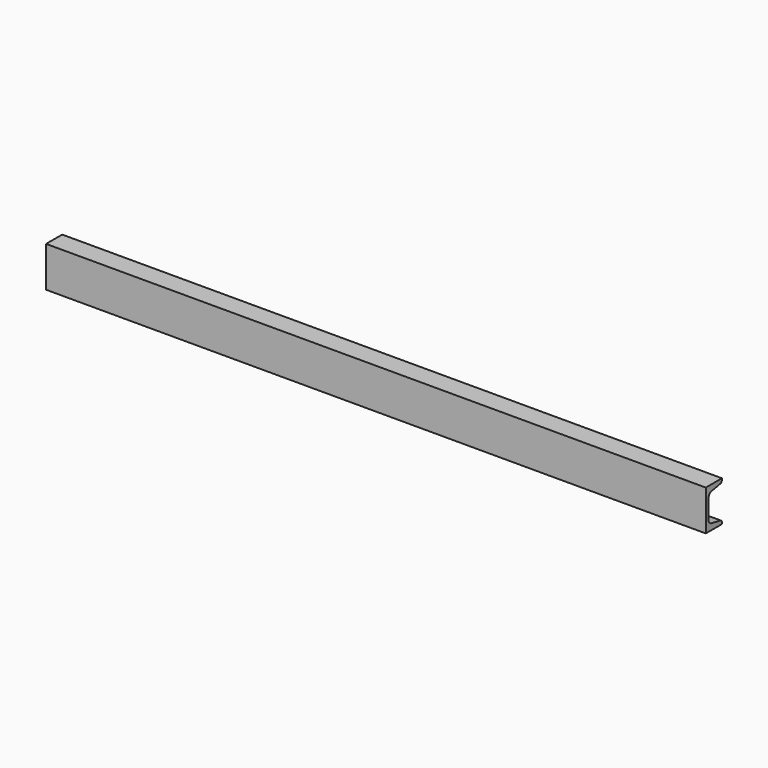
from build123d import *

# Parameters (mm, degrees)
F1_DEPTH = 1244.6
F2_R     = 5.08
F3_R     = 8.89


with BuildPart() as f1:
    # F0 (on Right) → F1 (new body)
    with BuildSketch(Plane.YZ):
        Polygon((0, 76.2), (0, 0), (38.0492, 0), (38.0492, 6.9342), (6.5532, 12.7), (6.5532, 63.5), (38.0492, 69.2658), (38.0492, 76.2), align=None)
    extrude(amount=-F1_DEPTH)

    # F2
    f2_edges = [f1.edges().sort_by_distance(p)[0] for p in [
        (-622.3, 38.0492, 69.2658),
        (-622.3, 38.0492, 6.9342),
    ]]
    fillet(f2_edges, radius=F2_R)

    # F3
    f3_edges = [f1.edges().sort_by_distance(p)[0] for p in [
        (-622.3, 6.5532, 12.7),
        (-622.3, 6.5532, 63.5),
    ]]
    fillet(f3_edges, radius=F3_R)


solid = f1.part
